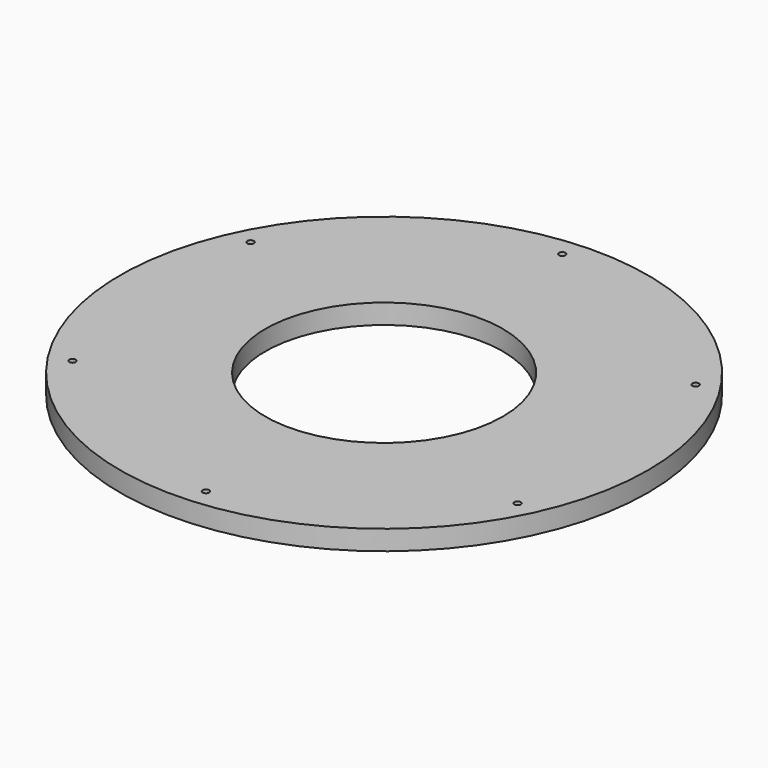
from build123d import *

# Parameters (mm, degrees)
F0_R     = 254
F0_R_2   = 114.3
F1_DEPTH = 19.05


with BuildPart() as f1:
    # F0 (on Top) → F1 (new body)
    with BuildSketch(Plane.XY):
        Circle(F0_R)
        with BuildLine():
            ThreePointArc((196.7011125508, 128.4919251209), (225.1848450649, 67.0319927579), (234.95, 0))
            ThreePointArc((234.95, 0), (229.2479499847, -51.4478369596), (212.4185683948, -100.3984775836))
            ThreePointArc((212.4185683948, -100.3984775836), (213.7303800146, -101.5698688542), (214.2174677682, -103.259766116))
            ThreePointArc((214.2174677682, -103.259766116), (212.7141648851, -105.9590352298), (209.6278276113, -106.1021978612))
            ThreePointArc((209.6278276113, -106.1021978612), (131.1382553066, -194.9468145294), (19.2616521087, -234.1591152572))
            ThreePointArc((19.2616521087, -234.1591152572), (19.2684021583, -234.2784835874), (19.2706532388, -234.3980214226))
            ThreePointArc((19.2706532388, -234.3980214226), (16.1937508526, -237.5715056053), (12.9267150604, -234.5941229821))
            ThreePointArc((12.9267150604, -234.5941229821), (-103.259766116, -211.0424677682), (-193.1569162861, -133.7606376736))
            ThreePointArc((-193.1569162861, -133.7606376736), (-197.5812309419, -132.9103938918), (-196.7011125508, -128.4919251209))
            ThreePointArc((-196.7011125508, -128.4919251209), (-234.3980214226, -16.0956532388), (-212.4185683948, 100.3984775836))
            ThreePointArc((-212.4185683948, 100.3984775836), (-213.8943930083, 104.6551683608), (-209.6278276113, 106.1021978612))
            ThreePointArc((-209.6278276113, 106.1021978612), (-131.1382553066, 194.9468145294), (-19.2616521087, 234.1591152572))
            ThreePointArc((-19.2616521087, 234.1591152572), (-16.3131620664, 237.5655622526), (-12.9267150604, 234.5941229821))
            ThreePointArc((-12.9267150604, 234.5941229821), (103.259766116, 211.0424677682), (193.1569162861, 133.7606376736))
            ThreePointArc((193.1569162861, 133.7606376736), (196.4296661871, 133.9457053883), (198.1218145294, 131.1382553066))
            ThreePointArc((198.1218145294, 131.1382553066), (197.744181257, 129.6364682408), (196.7011125508, 128.4919251209))
        make_face(mode=Mode.SUBTRACT)
        with BuildLine():
            ThreePointArc((212.4185683948, -100.3984775836), (229.2479499847, -51.4478369596), (234.95, 0))
            ThreePointArc((234.95, 0), (225.1848450649, 67.0319927579), (196.7011125508, 128.4919251209))
            ThreePointArc((196.7011125508, 128.4919251209), (192.3123981168, 129.3661167214), (193.1569162861, 133.7606376736))
            ThreePointArc((193.1569162861, 133.7606376736), (103.259766116, 211.0424677682), (-12.9267150604, 234.5941229821))
            ThreePointArc((-12.9267150604, 234.5941229821), (-12.9221690561, 234.4961190364), (-12.9206532388, 234.3980214226))
            ThreePointArc((-12.9206532388, 234.3980214226), (-15.9761154036, 231.2252725031), (-19.2616521087, 234.1591152572))
            ThreePointArc((-19.2616521087, 234.1591152572), (-131.1382553066, 194.9468145294), (-209.6278276113, 106.1021978612))
            ThreePointArc((-209.6278276113, 106.1021978612), (-208.3431986543, 104.931463233), (-207.8674677682, 103.259766116))
            ThreePointArc((-207.8674677682, 103.259766116), (-209.3525705064, 100.5718538695), (-212.4185683948, 100.3984775836))
            ThreePointArc((-212.4185683948, 100.3984775836), (-234.3980214226, -16.0956532388), (-196.7011125508, -128.4919251209))
            ThreePointArc((-196.7011125508, -128.4919251209), (-193.4450274636, -128.3408885789), (-191.7718145294, -131.1382553066))
            ThreePointArc((-191.7718145294, -131.1382553066), (-192.1393644477, -132.6211069643), (-193.1569162861, -133.7606376736))
            ThreePointArc((-193.1569162861, -133.7606376736), (-103.259766116, -211.0424677682), (12.9267150604, -234.5941229821))
            ThreePointArc((12.9267150604, -234.5941229821), (15.8781444113, -231.2304805925), (19.2616521087, -234.1591152572))
            ThreePointArc((19.2616521087, -234.1591152572), (131.1382553066, -194.9468145294), (209.6278276113, -106.1021978612))
            ThreePointArc((209.6278276113, -106.1021978612), (208.190542528, -101.8643638712), (212.4185683948, -100.3984775836))
        make_face()
        Circle(F0_R_2, mode=Mode.SUBTRACT)
    extrude(amount=F1_DEPTH)


solid = f1.part
